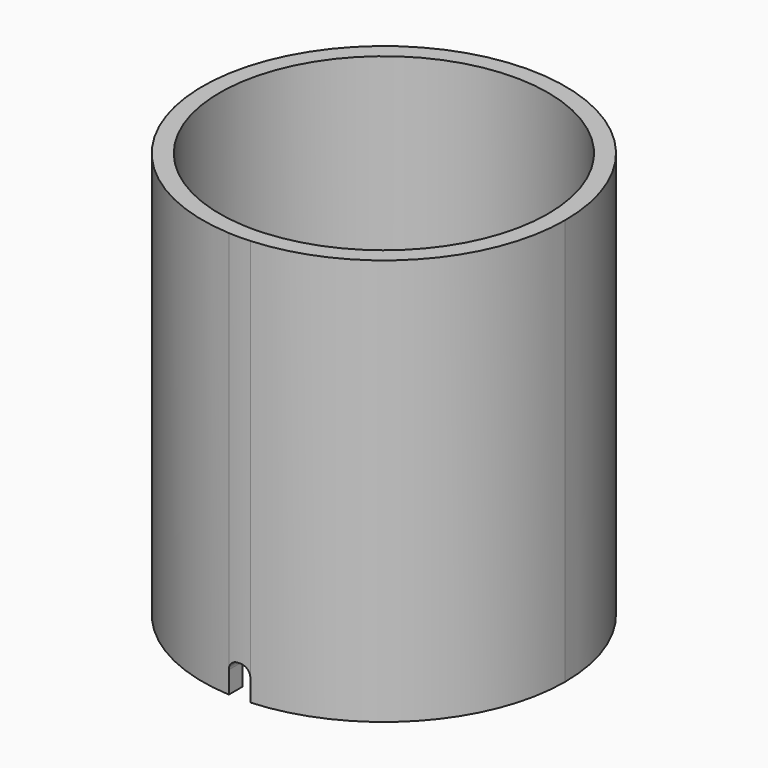
from build123d import *

# Parameters (mm, degrees)
F1_DEPTH = 26
F2_DEPTH = 2
F3_R     = 0.6


with BuildPart() as f1:
    # F0 (on Top) → F1 (new body)
    with BuildSketch(Plane.XY):
        with BuildLine():
            ThreePointArc((-0.6565888179, -10.479450898), (-7.1887348474, 7.6532405747), (10.5, 0))
            ThreePointArc((10.5, 0), (7.6730926803, -7.1675413302), (0.7145431009, -10.4756588412))
            Line((0.7145431009, -10.4756588412), (0.7145431009, -11.5779716772))
            ThreePointArc((0.7145431009, -11.5779716772), (8.4512927996, -7.9457944861), (11.6, 0))
            ThreePointArc((11.6, 0), (-7.966918153, 8.431382754), (-0.6565888179, -11.5814028133))
            Line((-0.6565888179, -11.5814028133), (-0.6565888179, -10.479450898))
        make_face()
        with BuildLine():
            ThreePointArc((0.7145431009, -10.4756588412), (0.0290391056, -10.4999598442), (-0.6565888179, -10.479450898))
            Line((-0.6565888179, -10.479450898), (-0.6565888179, -11.5814028133))
            ThreePointArc((-0.6565888179, -11.5814028133), (0.0290278815, -11.5999636802), (0.7145431009, -11.5779716772))
            Line((0.7145431009, -11.5779716772), (0.7145431009, -10.4756588412))
        make_face()
    extrude(amount=F1_DEPTH)

    # F0 (on Top) → F2 (cut)
    with BuildSketch(Plane.XY):
        with BuildLine():
            ThreePointArc((0.7145431009, -10.4756588412), (0.0290391056, -10.4999598442), (-0.6565888179, -10.479450898))
            Line((-0.6565888179, -10.479450898), (-0.6565888179, -11.5814028133))
            ThreePointArc((-0.6565888179, -11.5814028133), (0.0290278815, -11.5999636802), (0.7145431009, -11.5779716772))
            Line((0.7145431009, -11.5779716772), (0.7145431009, -10.4756588412))
        make_face()
    extrude(amount=F2_DEPTH, mode=Mode.SUBTRACT)

    # F3
    f3_edges = [f1.edges().sort_by_distance(p)[0] for p in [
        (0.714543, -11.026815, 2),
        (-0.656589, -11.030427, 2),
    ]]
    fillet(f3_edges, radius=F3_R)


solid = f1.part
